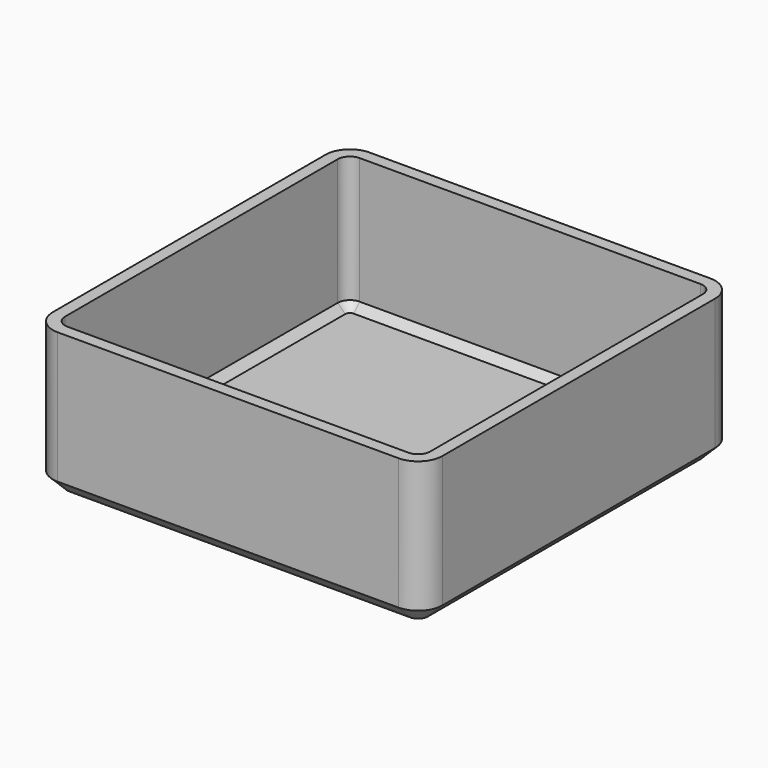
from build123d import *

# Parameters (mm, degrees)
F0_W     = 101.6
F0_H     = 101.6
F1_DEPTH = 38.1
F3_R     = 6.35
F4_SIZE  = 3.81
F5_T     = -3.175
F2_R     = 6.35
F6_DEPTH = 38.101


with BuildPart() as f1:
    # F0 (on Top) → F1 (new body)
    with BuildSketch(Plane.XY):
        Rectangle(F0_W, F0_H)
    extrude(amount=F1_DEPTH)

    # F3
    f3_edges = [f1.edges().sort_by_distance(p)[0] for p in [
        (-50.8, 50.8, 19.05),
        (50.8, -50.8, 19.05),
        (50.8, 50.8, 19.05),
        (-50.8, -50.8, 19.05),
    ]]
    fillet(f3_edges, radius=F3_R)

    # F4
    f4_edges = [f1.edges().sort_by_distance(p)[0] for p in [
        (0, -50.8, 0),
    ]]
    chamfer(f4_edges, length=F4_SIZE)

    # F5
    f5_openings = [f1.faces().sort_by_distance(p)[0] for p in [
        (0, 0, 38.1),
    ]]
    offset(amount=F5_T, openings=f5_openings)

    # F2 (on face) → F6 (cut, through all)
    with BuildSketch(Plane(origin=(0, 0, 0), x_dir=(1, 0, 0), z_dir=(0, 0, -1))):
        with Locations((-31.430896, 31.430896)):
            Circle(F2_R)
    extrude(amount=-F6_DEPTH, mode=Mode.SUBTRACT)


solid = f1.part
